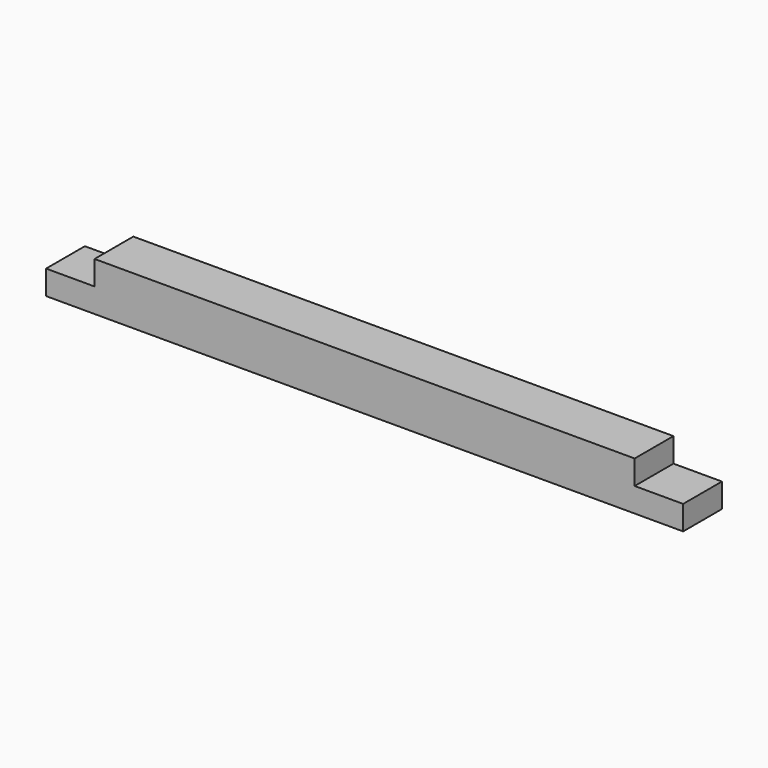
from build123d import *

# Parameters (mm, degrees)
F0_W     = 88.9
F0_H     = 88.9
F1_DEPTH = 673.1
F2_W     = 88.9
F2_H     = 44.45
F3_DEPTH = 88.901
F4_W     = 88.9
F4_H     = 88.9
F5_DEPTH = 88.901


with BuildPart() as f1:
    # F0 (on Right) → F1 (new body, symmetric)
    with BuildSketch(Plane.YZ):
        Rectangle(F0_W, F0_H)
    extrude(amount=F1_DEPTH, both=True)

    # F2 (on face) → F3 (cut, through all)
    with BuildSketch(Plane.XZ.offset(44.45)):
        with Locations((-539.75, 22.225)):
            Rectangle(F2_W, F2_H)
        with Locations((539.75, 22.225)):
            Rectangle(F2_W, F2_H)
    extrude(amount=-F3_DEPTH, mode=Mode.SUBTRACT)

    # F4 (on face) → F5 (cut, through all)
    with BuildSketch(Plane.XZ.offset(44.45)):
        with Locations((-628.65, 0)):
            Rectangle(F4_W, F4_H)
        with Locations((628.65, 0)):
            Rectangle(F4_W, F4_H)
    extrude(amount=-F5_DEPTH, mode=Mode.SUBTRACT)


solid = f1.part
